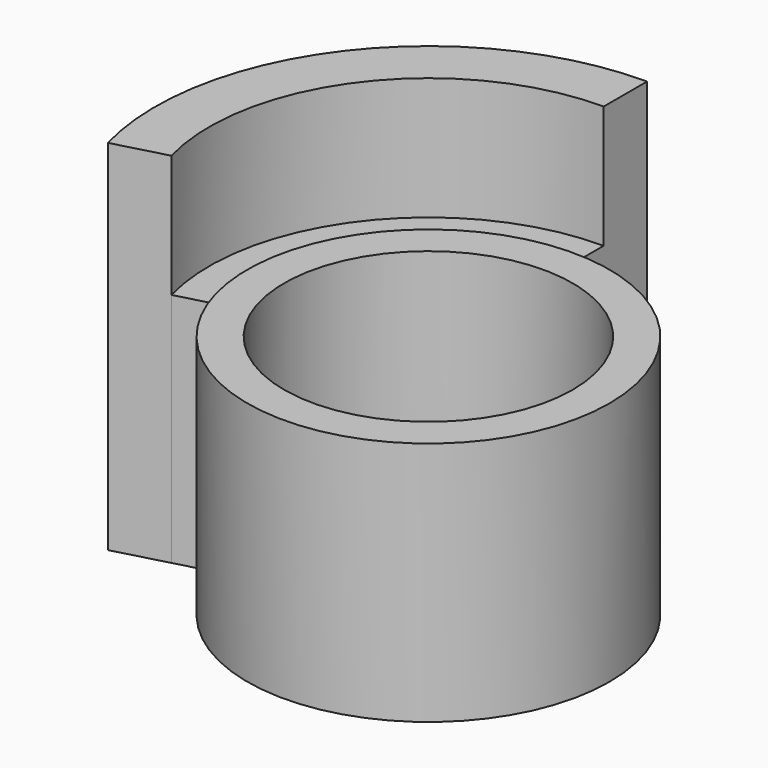
from build123d import *

# Parameters (mm, degrees)
F0_R     = 29.55
F1_DEPTH = 4
F2_R     = 29.55
F2_R_2   = 23.55
F3_DEPTH = 36
F5_DEPTH = 38.5
F6_DEPTH = 58.5


with BuildPart() as f1:
    # F0 (on Top) → F1 (new body)
    with BuildSketch(Plane.XY):
        Circle(F0_R)
    extrude(amount=F1_DEPTH)

    # F2 (on face) → F3 (join)
    with BuildSketch(Plane.XY.offset(4)):
        Circle(F2_R)
        Circle(F2_R_2, mode=Mode.SUBTRACT)
    extrude(amount=F3_DEPTH)


with BuildPart() as f5:
    # F4 (on Top) → F5 (new body)
    with BuildSketch(Plane.XY):
        with BuildLine():
            ThreePointArc((-28.5914044582, -7.661043735), (-23.4832588726, 18.0193382987), (0, 29.6))
            Line((0, 29.6), (0, 35.75))
            ThreePointArc((0, 35.75), (-28.3623819154, 21.7632210871), (-34.5318482898, -9.2527808624))
            Line((-34.5318482898, -9.2527808624), (-28.5914044582, -7.661043735))
        make_face()
    extrude(amount=F5_DEPTH)

    # F4 (on Top) → F6 (join)
    with BuildSketch(Plane.XY):
        with BuildLine():
            ThreePointArc((-34.5318482898, -9.2527808624), (-28.3623819154, 21.7632210871), (0, 35.75))
            Line((0, 35.75), (0, 44.6))
            ThreePointArc((0, 44.6), (-35.383558977, 27.1507597338), (-43.0802918525, -11.5433294116))
            Line((-43.0802918525, -11.5433294116), (-34.5318482898, -9.2527808624))
        make_face()
    extrude(amount=F6_DEPTH)


solid = Compound([f1.part, f5.part])
